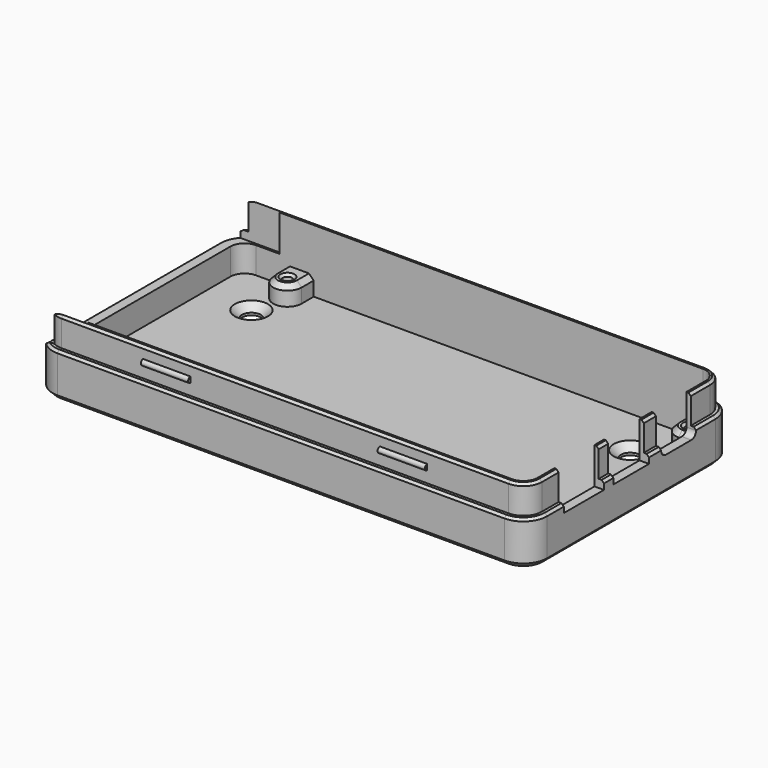
from build123d import *

# Parameters (mm, degrees)
PAD013_DEPTH                  = 15.3
PAD013_MIRRORED025_2_DEPTH    = 15.3
PAD011_DEPTH                  = 2
PAD011_MIRRORED024_2_DEPTH    = 2
SKETCH037_R                   = 1
PAD012_DEPTH                  = 4
POCKET029_DEPTH               = 6
POCKET029_MIRRORED019_2_DEPTH = 6
PAD014_DEPTH                  = 30
POCKET031_DEPTH               = 20
CHAMFER023_SIZE               = 1
CHAMFER021_SIZE               = 1
CHAMFER019_SIZE               = 0.5
CHAMFER018_SIZE               = 0.5
CHAMFER017_SIZE               = 0.5
POCKET039_DEPTH               = 5
SKETCH032_W                   = 9.4
SKETCH032_H                   = 50
POCKET034_DEPTH               = 5
POCKET038_DEPTH               = 10
POCKET048_DEPTH               = 10
POCKET035_DEPTH               = 10
POCKET050_DEPTH               = 10
POCKET047_DEPTH               = 10
POCKET049_DEPTH               = 10
SKETCH038_R                   = 2
POCKET032_DEPTH               = 5
CHAMFER025_SIZE               = 1.5


with BuildPart() as part:
    # Sketch036 → Pad013 (new body)
    with BuildSketch(Plane.XY):
        with BuildLine():
            ThreePointArc((-47.2, 25.2), (-49.32132, 24.32132), (-50.2, 22.2))
            Line((-50.2, 22.2), (-50.2, 0))
            Line((-52.2, 0), (-50.2, 0))
            Line((-52.2, 22.2), (-52.2, 0))
            ThreePointArc((-47.2, 27.2), (-50.735534, 25.735534), (-52.2, 22.2))
            Line((-47.2, 27.2), (0, 27.2))
            Line((0, 27.2), (0, 25.2))
            Line((-47.2, 25.2), (0, 25.2))
        make_face()
    pad013 = extrude(amount=PAD013_DEPTH)

    # Sketch036 Mirrored025 2 → Pad013 Mirrored025 2 (add)
    with BuildSketch(Plane(origin=(0, 0, 0), x_dir=(-1, 0, 0), z_dir=(0, 0, -1))):
        with BuildLine():
            ThreePointArc((-47.2, 25.2), (-49.32132, 24.32132), (-50.2, 22.2))
            Line((-50.2, 22.2), (-50.2, 0))
            Line((-52.2, 0), (-50.2, 0))
            Line((-52.2, 22.2), (-52.2, 0))
            ThreePointArc((-47.2, 27.2), (-50.735534, 25.735534), (-52.2, 22.2))
            Line((-47.2, 27.2), (0, 27.2))
            Line((0, 27.2), (0, 25.2))
            Line((-47.2, 25.2), (0, 25.2))
        make_face()
    pad013_mirrored025_2 = extrude(amount=-PAD013_MIRRORED025_2_DEPTH)

    # Mirrored023: Pad013, Pad013 Mirrored025 2 across Sketch036 H_Axis
    add(pad013.mirror(Plane.ZX))
    add(pad013_mirrored025_2.mirror(Plane.ZX))

    # Sketch035 → Pad011 (join)
    with BuildSketch(Plane.XY):
        with BuildLine():
            ThreePointArc((-47.2, 25.2), (-49.32132, 24.32132), (-50.2, 22.2))
            Line((-50.2, 22.2), (-50.2, 0))
            Line((-50.2, 0), (0, 0))
            Line((0, 0), (0, 25.2))
            Line((-47.2, 25.2), (0, 25.2))
        make_face()
    pad011 = extrude(amount=PAD011_DEPTH)

    # Sketch035 Mirrored024 2 → Pad011 Mirrored024 2 (add)
    with BuildSketch(Plane(origin=(0, 0, 0), x_dir=(-1, 0, 0), z_dir=(0, 0, -1))):
        with BuildLine():
            ThreePointArc((-47.2, 25.2), (-49.32132, 24.32132), (-50.2, 22.2))
            Line((-50.2, 22.2), (-50.2, 0))
            Line((-50.2, 0), (0, 0))
            Line((0, 0), (0, 25.2))
            Line((-47.2, 25.2), (0, 25.2))
        make_face()
    pad011_mirrored024_2 = extrude(amount=-PAD011_MIRRORED024_2_DEPTH)

    # Mirrored022: Pad011, Pad011 Mirrored024 2 across Sketch035 H_Axis
    add(pad011.mirror(Plane.ZX))
    add(pad011_mirrored024_2.mirror(Plane.ZX))

    # Sketch037 (on Face19 of MultiTransform008) → Pad012 (join)
    with BuildSketch(Plane.XY.offset(2)):
        with BuildLine():
            ThreePointArc((50.2, 22.2), (49.32132, 24.32132), (47.2, 25.2))
            Line((47.2, 25.2), (44, 25.2))
            Line((44, 22), (44, 25.2))
            ThreePointArc((44, 22), (44.87868, 19.87868), (47, 19))
            Line((47, 19), (50.2, 19))
            Line((50.2, 22.2), (50.2, 19))
        make_face()
        with Locations((47, 22)):
            Circle(SKETCH037_R, mode=Mode.SUBTRACT)
        with BuildLine():
            ThreePointArc((-41, 22), (-38, 19), (-35, 22))
            Line((-35, 22), (-35, 25.2))
            Line((-41, 25.2), (-35, 25.2))
            Line((-41, 22), (-41, 25.2))
        make_face()
        with Locations((-38, 22)):
            Circle(SKETCH037_R, mode=Mode.SUBTRACT)
    pad012 = extrude(amount=PAD012_DEPTH)

    # Mirrored026: Pad012 across Sketch037 H_Axis
    add(pad012.mirror(Plane(origin=(0, 0, 2), x_dir=(0, 0, 1), z_dir=(0, 1, 0))))

    # Sketch034 (on Face5 of Mirrored026) → Pocket029 (cut)
    with BuildSketch(Plane.XY.offset(15.3)):
        with BuildLine():
            ThreePointArc((-47.2, 27.2), (-50.735534, 25.735534), (-52.2, 22.2))
            Line((-52.2, 0), (-52.2, 22.2))
            Line((-51.1, 0), (-52.2, 0))
            Line((-51.1, 22.2), (-51.1, 0))
            ThreePointArc((-47.2, 26.1), (-49.957716, 24.957716), (-51.1, 22.2))
            Line((0, 26.1), (-47.2, 26.1))
            Line((0, 27.2), (0, 26.1))
            Line((-47.2, 27.2), (0, 27.2))
        make_face()
    pocket029 = extrude(amount=-POCKET029_DEPTH, mode=Mode.SUBTRACT)

    # Sketch034 Mirrored019 2 → Pocket029 Mirrored019 2 (cut)
    with BuildSketch(Plane(origin=(0, 0, 15.3), x_dir=(-1, 0, 0), z_dir=(0, 0, -1))):
        with BuildLine():
            ThreePointArc((-47.2, 27.2), (-50.735534, 25.735534), (-52.2, 22.2))
            Line((-52.2, 0), (-52.2, 22.2))
            Line((-51.1, 0), (-52.2, 0))
            Line((-51.1, 22.2), (-51.1, 0))
            ThreePointArc((-47.2, 26.1), (-49.957716, 24.957716), (-51.1, 22.2))
            Line((0, 26.1), (-47.2, 26.1))
            Line((0, 27.2), (0, 26.1))
            Line((-47.2, 27.2), (0, 27.2))
        make_face()
    pocket029_mirrored019_2 = extrude(amount=POCKET029_MIRRORED019_2_DEPTH, mode=Mode.SUBTRACT)

    # Mirrored029: Pocket029, Pocket029 Mirrored019 2 across Sketch034 H_Axis
    add(pocket029.mirror(Plane(origin=(0, 0, 15.3), x_dir=(0, 0, 1), z_dir=(0, 1, 0))), mode=Mode.SUBTRACT)
    add(pocket029_mirrored019_2.mirror(Plane(origin=(0, 0, 15.3), x_dir=(0, 0, 1), z_dir=(0, 1, 0))), mode=Mode.SUBTRACT)

    # Sketch042 → Pad014 (join, symmetric)
    with BuildSketch(Plane.YZ):
        with BuildLine():
            ThreePointArc((-26.1, 12.9), (-26.7, 12.3), (-26.1, 11.7))
            Line((-26.1, 12.9), (-26.1, 11.7))
        make_face()
    pad014 = extrude(amount=PAD014_DEPTH, both=True)

    # Sketch042 → Pocket031 (cut, symmetric)
    with BuildSketch(Plane.YZ):
        with BuildLine():
            ThreePointArc((-26.1, 12.9), (-26.7, 12.3), (-26.1, 11.7))
            Line((-26.1, 12.9), (-26.1, 11.7))
        make_face()
    pocket031 = extrude(amount=POCKET031_DEPTH, both=True, mode=Mode.SUBTRACT)

    # Mirrored030: Pad014, Pocket031 across Sketch042 V_Axis
    add(pad014.mirror(Plane(origin=(0, 0, 0), x_dir=(1, 0, 0), z_dir=(0, 1, 0))))
    add(pocket031.mirror(Plane(origin=(0, 0, 0), x_dir=(1, 0, 0), z_dir=(0, 1, 0))), mode=Mode.SUBTRACT)

    # Chamfer023
    chamfer023_edges = [part.edges().sort_by_distance(p)[0] for p in [
        (0, -27.2, 0),
    ]]
    chamfer(chamfer023_edges, length=CHAMFER023_SIZE)

    # Chamfer021
    chamfer021_edges = [part.edges().sort_by_distance(p)[0] for p in [
        (-35, 23.6, 6),
        (-35, -23.6, 6),
        (44, -23.6, 6),
        (44, 23.6, 6),
    ]]
    chamfer(chamfer021_edges, length=CHAMFER021_SIZE)

    # Chamfer019
    chamfer019_edges = [part.edges().sort_by_distance(p)[0] for p in [
        (-39, 22, 6),
        (46, 22, 6),
        (-39, -22, 6),
        (46, -22, 6),
    ]]
    chamfer(chamfer019_edges, length=CHAMFER019_SIZE)

    # Chamfer018
    chamfer018_edges = [part.edges().sort_by_distance(p)[0] for p in [
        (0, -26.1, 15.3),
    ]]
    chamfer(chamfer018_edges, length=CHAMFER018_SIZE)

    # Chamfer017
    chamfer017_edges = [part.edges().sort_by_distance(p)[0] for p in [
        (-23.6, -27.2, 9.3),
    ]]
    chamfer(chamfer017_edges, length=CHAMFER017_SIZE)

    # Sketch045 (on DatumPlane) → Pocket039 (cut)
    with BuildSketch(Plane.YZ.offset(52.2)):
        with BuildLine():
            ThreePointArc((7.9, 8.75), (8.266117, 7.866117), (9.15, 7.5))
            Line((9.15, 7.5), (15.85, 7.5))
            ThreePointArc((15.85, 7.5), (16.733883, 7.866117), (17.1, 8.75))
            Line((17.1, 8.75), (17.1, 58.75))
            Line((7.9, 58.75), (17.1, 58.75))
            Line((7.9, 8.75), (7.9, 58.75))
        make_face()
    extrude(amount=-POCKET039_DEPTH, mode=Mode.SUBTRACT)

    # Sketch032 (on DatumPlane) → Pocket034 (cut)
    with BuildSketch(Plane.YZ.offset(52.2)):
        with Locations((0, 32.6)):
            Rectangle(SKETCH032_W, SKETCH032_H)
    extrude(amount=-POCKET034_DEPTH, mode=Mode.SUBTRACT)

    # Sketch052 (on DatumPlane) → Pocket038 (cut)
    with BuildSketch(Plane.YZ.offset(52.2)):
        Polygon((-17.8, 7.6), (-7.2, 7.6), (-7.2, 15.6), (-12.1, 15.6), (-12.1, 18.1), (-14.1, 18.1), (-14.1, 15.6), (-17.8, 15.6), align=None)
    extrude(amount=-POCKET038_DEPTH, mode=Mode.SUBTRACT)

    # Sketch053 (on DatumPlane) → Pocket048 (cut)
    with BuildSketch(Plane(origin=(-52.2, 0, 0), x_dir=(0, -1, 0), z_dir=(-1, 0, 0))):
        Polygon((-25.62, 7.6), (-15.02, 7.6), (-15.02, 15.6), (-19.92, 15.6), (-19.92, 18.1), (-21.92, 18.1), (-21.92, 15.6), (-25.62, 15.6), align=None)
    extrude(amount=-POCKET048_DEPTH, mode=Mode.SUBTRACT)

    # Sketch051 (on DatumPlane) → Pocket035 (cut)
    with BuildSketch(Plane(origin=(-52.2, 0, 0), x_dir=(0, -1, 0), z_dir=(-1, 0, 0))):
        Polygon((-15.46, 7.6), (-4.86, 7.6), (-4.86, 15.6), (-9.76, 15.6), (-9.76, 18.1), (-11.76, 18.1), (-11.76, 15.6), (-15.46, 15.6), align=None)
    extrude(amount=-POCKET035_DEPTH, mode=Mode.SUBTRACT)

    # Sketch043 (on DatumPlane) → Pocket050 (cut)
    with BuildSketch(Plane(origin=(-52.2, 0, 0), x_dir=(0, -1, 0), z_dir=(-1, 0, 0))):
        Polygon((-5.3, 7.6), (5.3, 7.6), (5.3, 15.6), (0, 15.6), (0, 18.1), (-2, 18.1), (-2, 15.6), (-5.3, 15.6), align=None)
    extrude(amount=-POCKET050_DEPTH, mode=Mode.SUBTRACT)

    # Sketch048 (on DatumPlane) → Pocket047 (cut)
    with BuildSketch(Plane(origin=(-52.2, 0, 0), x_dir=(0, -1, 0), z_dir=(-1, 0, 0))):
        Polygon((4.86, 7.6), (15.46, 7.6), (15.46, 15.6), (10.56, 15.6), (10.56, 18.1), (8.56, 18.1), (8.56, 15.6), (4.86, 15.6), align=None)
    extrude(amount=-POCKET047_DEPTH, mode=Mode.SUBTRACT)

    # Sketch047 (on DatumPlane) → Pocket049 (cut)
    with BuildSketch(Plane(origin=(-52.2, 0, 0), x_dir=(0, -1, 0), z_dir=(-1, 0, 0))):
        Polygon((15.02, 7.6), (25.62, 7.6), (25.62, 15.6), (20.72, 15.6), (20.72, 18.1), (18.72, 18.1), (18.72, 15.6), (15.02, 15.6), align=None)
    extrude(amount=-POCKET049_DEPTH, mode=Mode.SUBTRACT)

    # Sketch038 (on DatumPlane) → Pocket032 (cut)
    with BuildSketch(Plane.XY.offset(2)):
        with Locations((-40, 15)):
            Circle(SKETCH038_R)
        with Locations((40, 15)):
            Circle(SKETCH038_R)
        with Locations((40, -15)):
            Circle(SKETCH038_R)
        with Locations((-40, -15)):
            Circle(SKETCH038_R)
    extrude(amount=-POCKET032_DEPTH, mode=Mode.SUBTRACT)

    # Chamfer025
    chamfer025_edges = [part.edges().sort_by_distance(p)[0] for p in [
        (-42, 15, 2),
        (38, 15, 2),
        (38, -15, 2),
        (-42, -15, 2),
    ]]
    chamfer(chamfer025_edges, length=CHAMFER025_SIZE)


solid = part.part
